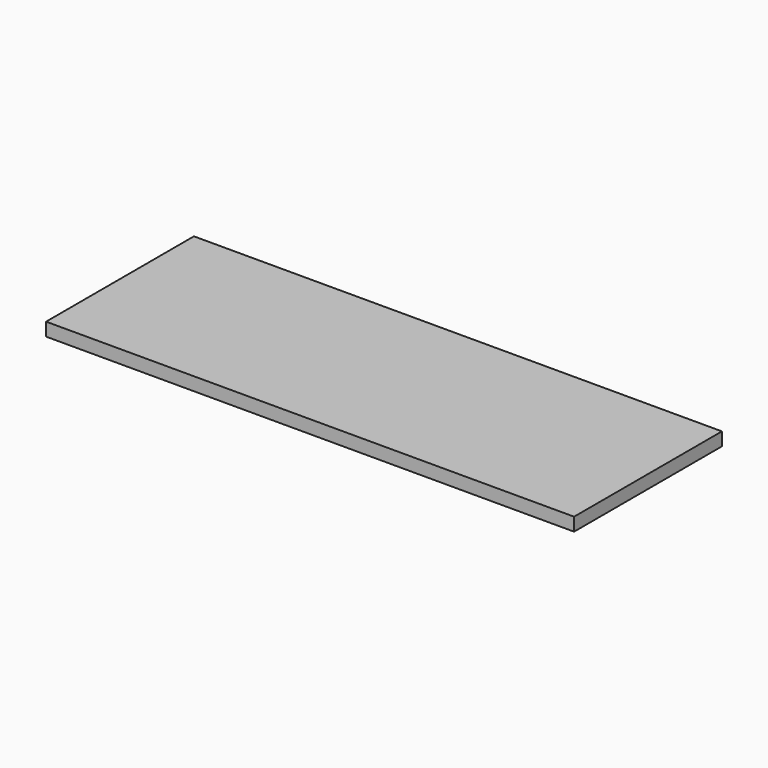
from build123d import *

# Parameters (mm, degrees)
SKETCH_W  = 800
SKETCH_H  = 280
PAD_DEPTH = 20


with BuildPart() as part:
    # Sketch → Pad (new body)
    with BuildSketch(Plane.XY):
        Rectangle(SKETCH_W, SKETCH_H)
    extrude(amount=PAD_DEPTH)


solid = part.part
